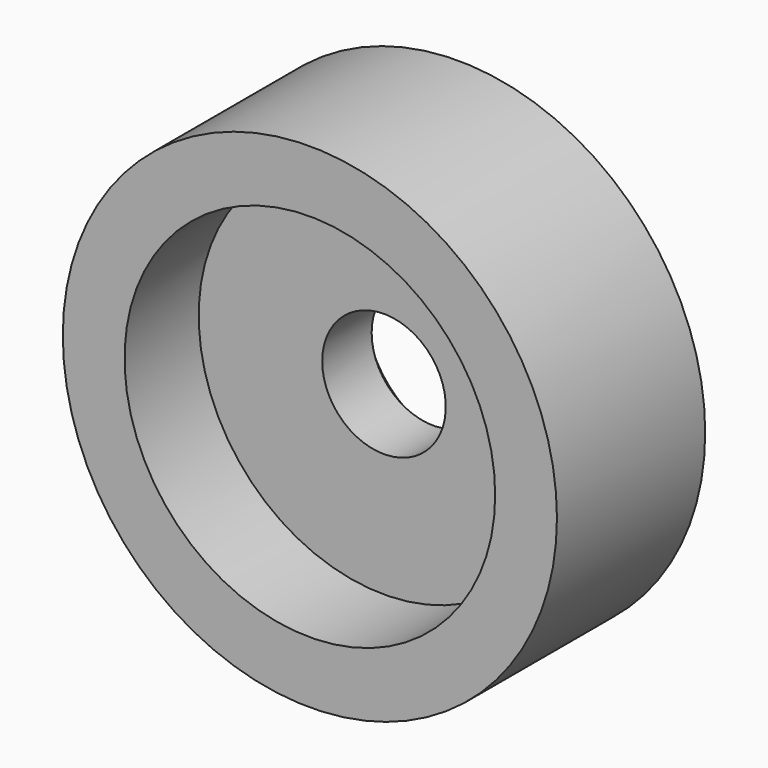
from build123d import *

# Parameters (mm, degrees)
F0_R           = 40
F1_DEPTH       = 30
F2_D           = 20
F2_CBORE_D     = 60
F2_CBORE_DEPTH = 15
F4_D           = 20
F4_DEPTH       = 50
F4_CBORE_D     = 30
F4_CBORE_DEPTH = 5


with BuildPart() as f1:
    # F0 (on Front) → F1 (new body)
    with BuildSketch(Plane.XZ):
        Circle(F0_R)
    extrude(amount=-F1_DEPTH)

    # F2 (through all)
    with Locations(Plane.XZ):
        with Locations((0, 0)):
            CounterBoreHole(F2_D / 2, F2_CBORE_D / 2, F2_CBORE_DEPTH)

    # F4
    with Locations(Plane(origin=(0, 30, 0), x_dir=(-1, 0, 0), z_dir=(0, 1, 0))):
        with Locations((0, 0)):
            CounterBoreHole(F4_D / 2, F4_CBORE_D / 2, F4_CBORE_DEPTH, depth=F4_DEPTH)


solid = f1.part
